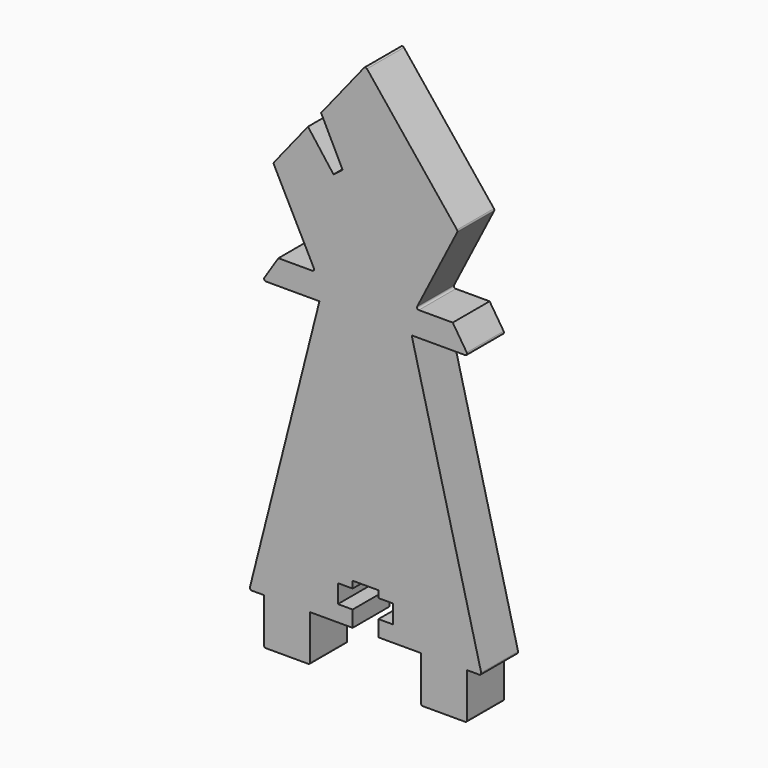
from build123d import *

# Parameters (mm, degrees)
F1_DEPTH      = 3.175
F1_DEPTH_BACK = 3.175
F3_DEPTH      = 25.4
F3_DEPTH_BACK = 25.4
F5_DEPTH      = 25.4
F5_DEPTH_BACK = 25.4


with BuildPart() as f1:
    # F0 (on Front) → F1 (new body, two sides)
    with BuildSketch(Plane.XZ) as f1_sk:
        with BuildLine():
            Line((-7.62, 0), (0, 0))
            Line((0, 0), (0, 38.1))
            Line((0, 38.1), (-6.35, 38.1))
            Line((-6.35, 38.1), (-15.9218513609, 0.3163762068))
            ThreePointArc((-15.9218513609, 0.3163762068), (-15.8760784336, 0.0979992893), (-15.6756294918, 0))
            Line((-15.6756294918, 0), (-13.97, 0))
            Line((-13.97, 0), (-13.97, -6.096))
            ThreePointArc((-13.97, -6.096), (-13.8956051224, -6.2756051224), (-13.716, -6.35))
            Line((-13.716, -6.35), (-7.874, -6.35))
            ThreePointArc((-7.874, -6.35), (-7.6943948776, -6.2756051224), (-7.62, -6.096))
            Line((-7.62, -6.096), (-7.62, 0))
        make_face()
        with BuildLine():
            Line((0, 38.1), (0, 0))
            Line((0, 0), (7.62, 0))
            Line((7.62, 0), (7.62, -6.096))
            ThreePointArc((7.62, -6.096), (7.6943948776, -6.2756051224), (7.874, -6.35))
            Line((7.874, -6.35), (13.716, -6.35))
            ThreePointArc((13.716, -6.35), (13.8956051224, -6.2756051224), (13.97, -6.096))
            Line((13.97, -6.096), (13.97, 0))
            Line((13.97, 0), (15.6756294918, 0))
            ThreePointArc((15.6756294918, 0), (15.8760784336, 0.0979992893), (15.9218513609, 0.3163762068))
            Line((15.9218513609, 0.3163762068), (6.35, 38.1))
            Line((6.35, 38.1), (0, 38.1))
        make_face()
        with BuildLine():
            Line((-6.35, 38.1), (0, 38.1))
            Line((0, 38.1), (6.35, 38.1))
            Line((6.35, 38.1), (12.0015, 38.1))
            Line((12.0015, 38.1), (12.0015, 41.4839549129))
            Line((12.0015, 41.4839549129), (7.3365180277, 41.4839549129))
            ThreePointArc((7.3365180277, 41.4839549129), (7.1198722569, 41.6053630202), (7.1103332026, 41.8535249129))
            Line((7.1103332026, 41.8535249129), (12.6253100407, 52.6470186525))
            ThreePointArc((12.6253100407, 52.6470186525), (12.6518210481, 52.7882949989), (12.5974039021, 52.9213386525))
            Line((12.5974039021, 52.9213386525), (0.1982786864, 68.4078410832))
            ThreePointArc((0.1982786864, 68.4078410832), (0, 68.5030910832), (-0.1982786864, 68.4078410832))
            Line((-0.1982786864, 68.4078410832), (-12.5974039021, 52.9213386525))
            ThreePointArc((-12.5974039021, 52.9213386525), (-12.6518210481, 52.7882949989), (-12.6253100407, 52.6470186525))
            Line((-12.6253100407, 52.6470186525), (-7.1103332026, 41.8535249129))
            ThreePointArc((-7.1103332026, 41.8535249129), (-7.1198722569, 41.6053630202), (-7.3365180277, 41.4839549129))
            Line((-7.3365180277, 41.4839549129), (-12.0015, 41.4839549129))
            Line((-12.0015, 41.4839549129), (-12.0015, 38.1))
            Line((-12.0015, 38.1), (-6.35, 38.1))
        make_face()
        with BuildLine():
            Line((-13.7196155367, 38.1), (-12.0015, 38.1))
            Line((-12.0015, 38.1), (-12.0015, 41.4839549129))
            Line((-12.0015, 41.4839549129), (-13.9330163108, 38.4917538008))
            ThreePointArc((-13.9330163108, 38.4917538008), (-13.9426687427, 38.2324958136), (-13.7196155367, 38.1))
        make_face()
        with BuildLine():
            Line((12.0015, 41.4839549129), (12.0015, 38.1))
            Line((12.0015, 38.1), (13.7196155367, 38.1))
            ThreePointArc((13.7196155367, 38.1), (13.9426687427, 38.2324958136), (13.9330163108, 38.4917538008))
            Line((13.9330163108, 38.4917538008), (12.0015, 41.4839549129))
        make_face()
    extrude(amount=F1_DEPTH)
    extrude(f1_sk.sketch, amount=-F1_DEPTH_BACK)

    # F2 (on Front) → F3 (cut, two sides)
    with BuildSketch(Plane.XZ) as f3_sk:
        Polygon((-3.1575310771, 55.0611501542), (-7.7323545702, 64.2502829432), (-9.8524354398, 61.3006092608), (-4.4139670208, 54.1107691824), align=None)
    extrude(amount=-F3_DEPTH, mode=Mode.SUBTRACT)
    extrude(f3_sk.sketch, amount=F3_DEPTH_BACK, mode=Mode.SUBTRACT)

    # F4 (on Front) → F5 (cut, two sides)
    with BuildSketch(Plane.XZ) as f5_sk:
        Polygon((1.778, 5.715), (-1.778, 5.715), (-1.778, 4.7625), (-3.81, 4.7625), (-3.81, 2.2225), (-1.778, 2.2225), (-1.778, 0), (1.778, 0), (1.778, 2.2225), (3.81, 2.2225), (3.81, 4.7625), (1.778, 4.7625), align=None)
    extrude(amount=F5_DEPTH, mode=Mode.SUBTRACT)
    extrude(f5_sk.sketch, amount=-F5_DEPTH_BACK, mode=Mode.SUBTRACT)


solid = f1.part
